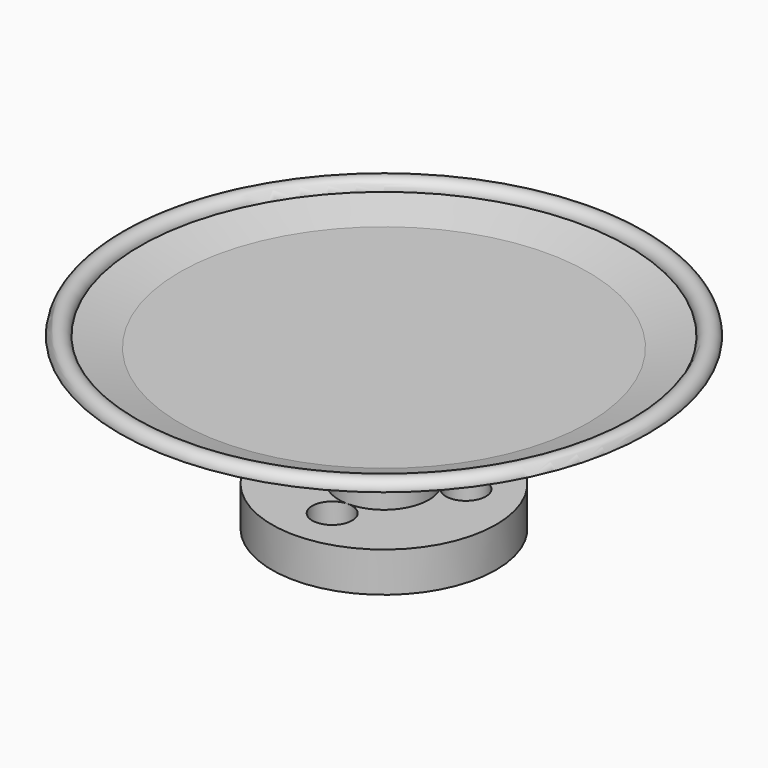
from build123d import *

# Parameters (mm, degrees)
F0_R     = 11.25
F1_DEPTH = 4
F2_R     = 4.5
F3_DEPTH = 6
F6_R     = 2
F7_DEPTH = 4


with BuildPart() as f1:
    # F0 (on Top) → F1 (new body)
    with BuildSketch(Plane.XY):
        Circle(F0_R)
    extrude(amount=F1_DEPTH)

    # F2 (on face) → F3 (join)
    with BuildSketch(Plane.XY.offset(4)):
        Circle(F2_R)
    extrude(amount=F3_DEPTH)

    # F4 (on Front) → F5 (revolve)
    with BuildSketch(Plane.XZ):
        with BuildLine():
            Line((20.5, 16), (0, 16))
            Line((0, 16), (0, 10))
            Line((0, 10), (4.5, 10))
            Line((4.5, 10), (26.5, 17))
            ThreePointArc((26.5, 17), (25.5, 18), (24.5, 17))
            Line((24.5, 17), (20.5, 16))
        make_face()
    revolve(axis=Axis((0, 0, 19.201497), (0, 0, 1)))

    # F6 (on face) → F7 (cut, through all)
    with BuildSketch(Plane(origin=(0, 0, 0), x_dir=(1, 0, 0), z_dir=(0, 0, -1))):
        with Locations((-5.629165, -3.25)):
            Circle(F6_R)
        with Locations((5.629165, -3.25)):
            Circle(F6_R)
        with Locations((0, 6.5)):
            Circle(F6_R)
    extrude(amount=-F7_DEPTH, mode=Mode.SUBTRACT)


solid = f1.part
